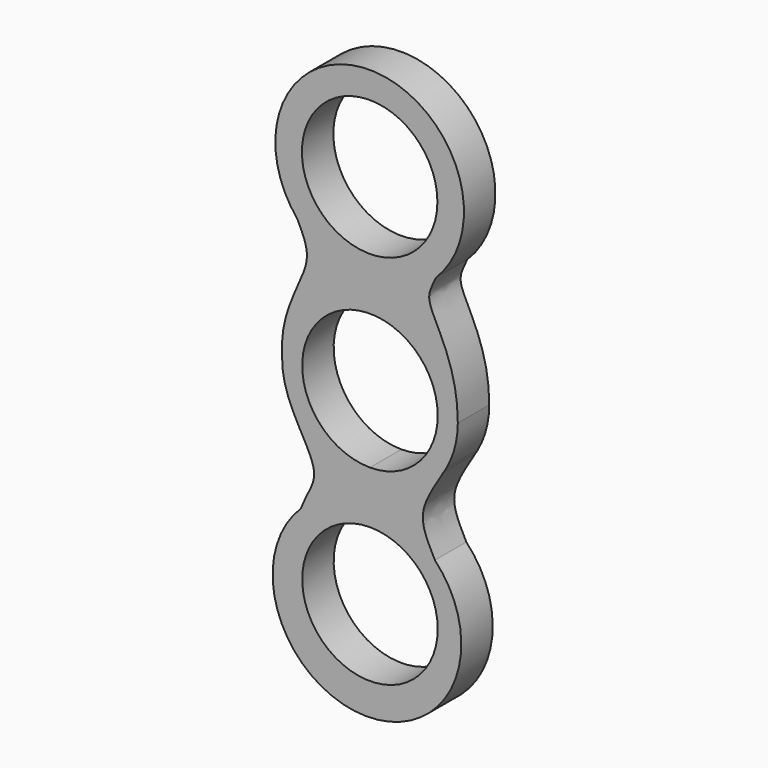
from build123d import *

# Parameters (mm, degrees)
F0_R     = 10.9474
F1_DEPTH = 6.35


with BuildPart() as f1:
    # F0 (on Front) → F1 (new body)
    with BuildSketch(Plane.XZ):
        with BuildLine():
            ThreePointArc((-13.2685446816, -5.0396682469), (-8.0598548082, -11.6829480217), (0, -14.1933975498))
            ThreePointArc((0, -14.1933975498), (6.7698516874, -12.4748403652), (11.90029643, -7.7353396101))
            add(Edge.make_bspline(
                [(11.90029643, -7.7353396101), (12.0535593312, -7.4829899095), (12.2107162371, -7.2236926197), (12.3714754304, -6.9569483023)],
                knots=[0.9591774425, 0.9591774425, 0.9591774425, 0.9591774425, 1, 1, 1, 1], degree=3))
            ThreePointArc((12.3714754304, -6.9569483023), (13.7303642171, -3.5957798142), (14.1933975498, 0))
            ThreePointArc((14.1933975498, 0), (0, 14.1933975498), (-14.1933975498, 0))
            ThreePointArc((-14.1933975498, 0), (-13.9602697606, -2.5619137801), (-13.2685446816, -5.0396682469))
        make_face()
        with BuildLine():
            ThreePointArc((0, -10.9474), (-7.7409807764, 7.7409807764), (10.9474, 0))
            ThreePointArc((10.9474, 0), (7.7409807764, -7.7409807764), (0, -10.9474))
        make_face(mode=Mode.SUBTRACT)
        with BuildLine():
            ThreePointArc((11.90029643, -7.7353396101), (6.7698516874, -12.4748403652), (0, -14.1933975498))
            ThreePointArc((0, -14.1933975498), (-8.0598548082, -11.6829480217), (-13.2685446816, -5.0396682469))
            add(Edge.make_bspline(
                [(-11.1718252314, -20.4150509073), (-10.2752013229, -17.9365202276), (-7.1442353987, -14.5969973645), (-11.864830176, -8.898419344), (-13.2685446816, -5.0396682469)],
                knots=[0, 0, 0, 0, 0.4355275546, 1, 1, 1, 1], degree=3))
            ThreePointArc((-11.1718252314, -20.4150509073), (-0.6968379156, -46.5203883622), (10.4937985181, -20.7137291613))
            add(Edge.make_bspline(
                [(10.4937985181, -20.7137291613), (9.1935984748, -18.2370298329), (7.5397029576, -14.7602557648), (10.0158135325, -10.8381693983), (11.90029643, -7.7353396101)],
                knots=[0, 0, 0, 0, 0.4572333258, 0.9591774425, 0.9591774425, 0.9591774425, 0.9591774425], degree=3))
        make_face()
        with BuildLine():
            ThreePointArc((10.9474, -30.3784), (-7.7409807764, -38.1193807764), (0, -19.431))
            ThreePointArc((0, -19.431), (7.7409807764, -22.6374192236), (10.9474, -30.3784))
        make_face(mode=Mode.SUBTRACT)
        with BuildLine():
            add(Edge.make_bspline(
                [(11.90029643, -7.7353396101), (12.0535593312, -7.4829899095), (12.2107162371, -7.2236926197), (12.3714754304, -6.9569483023)],
                knots=[0.9591774425, 0.9591774425, 0.9591774425, 0.9591774425, 1, 1, 1, 1], degree=3))
            ThreePointArc((11.90029643, -7.7353396101), (12.1421250434, -7.3499206416), (12.3714754304, -6.9569483023))
        make_face()
        with BuildLine():
            add(Edge.make_bspline(
                [(-14.1933975498, 0), (-14.7271984955, 6.909354162), (-8.5857084967, 14.3779721791), (-10.7006047161, 18.4330450096), (-11.7443399906, 20.6074653511)],
                knots=[0, 0, 0, 0, 0.6155147833, 1, 1, 1, 1], degree=3))
            ThreePointArc((-14.1933975498, 0), (0, 14.1933975498), (14.1933975498, 0))
            add(Edge.make_bspline(
                [(14.1933975498, 0), (14.1953765387, 8.5541345291), (8.2574436372, 15.3379896379), (9.9090943029, 17.8862823832), (10.6425855816, 19.5242241137)],
                knots=[0, 0, 0, 0, 0.6724502865, 1, 1, 1, 1], degree=3))
            ThreePointArc((10.6425855816, 19.5242241137), (0.6848487841, 45.6041133823), (-11.7443399906, 20.6074653511))
        make_face()
        with Locations((-0.0517107891, 30.3819230013)):
            Circle(F0_R, mode=Mode.SUBTRACT)
    extrude(amount=F1_DEPTH)


solid = f1.part
